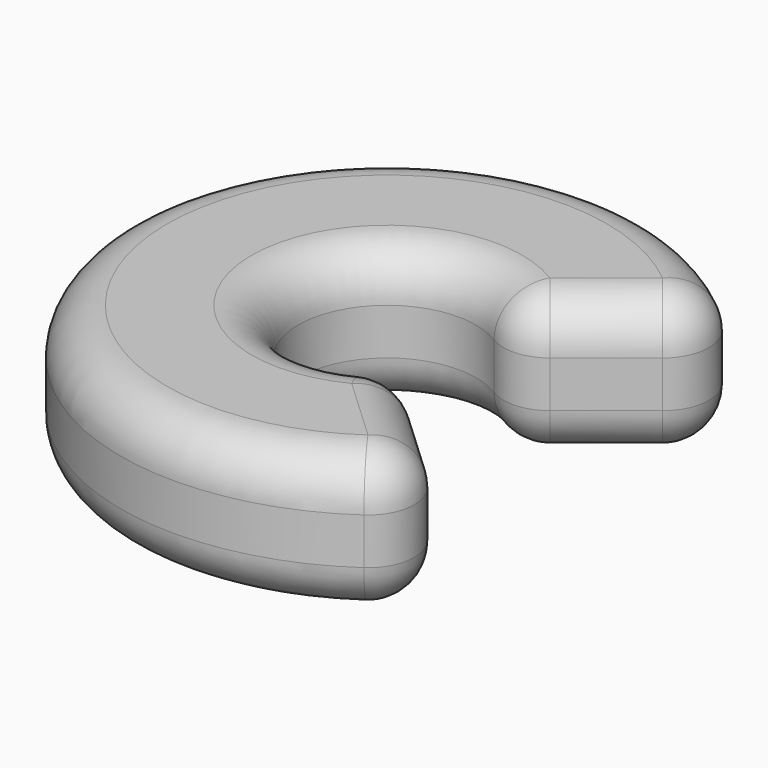
from build123d import *

# Parameters (mm, degrees)
F1_DEPTH = 15
F2_R     = 5


with BuildPart() as f1:
    # F0 (on Top) → F1 (new body)
    with BuildSketch(Plane.XY):
        with BuildLine():
            Line((7.4992435197, 5.9788351981), (22.4616837527, 17.9077669737))
            ThreePointArc((22.4616837527, 17.9077669737), (-28.7044730373, 1.1263137405), (20.9894451535, -19.6127139158))
            Line((20.9894451535, -19.6127139158), (7.0077097639, -6.5480628859))
            ThreePointArc((7.0077097639, -6.5480628859), (-9.5835127847, 0.3760404212), (7.4992435197, 5.9788351981))
        make_face()
    extrude(amount=F1_DEPTH)

    # F2
    f2_edges = [f1.edges().sort_by_distance(p)[0] for p in [
        (-9.583513, 0.37604, 15),
        (14.980464, 11.943301, 15),
        (-28.704473, 1.126314, 15),
        (13.998577, -13.080388, 15),
        (-9.583513, 0.37604, 0),
        (14.980464, 11.943301, 0),
        (-28.704473, 1.126314, 0),
        (13.998577, -13.080388, 0),
        (20.989445, -19.612714, 7.5),
        (7.00771, -6.548063, 7.5),
        (7.499244, 5.978835, 7.5),
        (22.461684, 17.907767, 7.5),
    ]]
    fillet(f2_edges, radius=F2_R)


solid = f1.part
